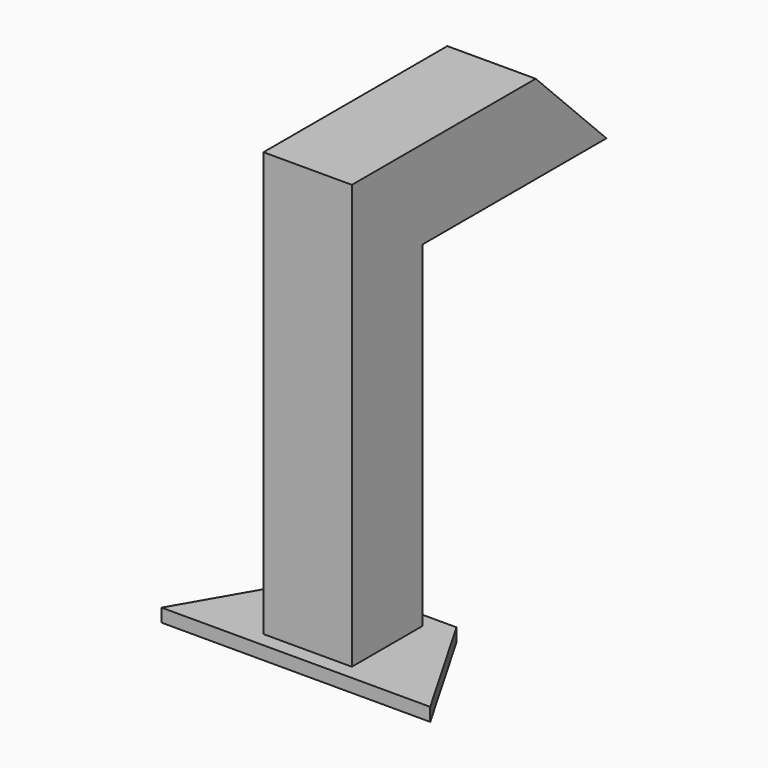
from build123d import *

# Parameters (mm, degrees)
F2_DEPTH  = 9.525
F4_DEPTH  = 304.8
F6_DEPTH  = 63.5
F8_W      = 63.5
F8_H      = 63.5
F8_W_2    = 50.8
F8_H_2    = 50.8
F9_DEPTH  = 228.6
F11_DEPTH = 128.262011


with BuildPart() as f2:
    # F1 (on face) → F2 (new body)
    with BuildSketch(Plane.XY):
        Polygon((-48.886011, -84.673055), (144.136011, -84.673055), (95.25, 0), (0, 0), align=None)
    extrude(amount=F2_DEPTH)

    # F3 (on face) → F4 (join)
    with BuildSketch(Plane.XY.offset(9.525)):
        Polygon((79.375, -10.586528), (47.625, -10.586528), (47.625, -16.936528), (73.025, -16.936528), (73.025, -67.736528), (47.625, -67.736528), (47.625, -74.086528), (79.375, -74.086528), align=None)
        Polygon((47.625, -16.936528), (47.625, -10.586528), (15.875, -10.586528), (15.875, -74.086528), (47.625, -74.086528), (47.625, -67.736528), (22.225, -67.736528), (22.225, -16.936528), align=None)
    extrude(amount=F4_DEPTH)

    # F5 (on face) → F6 (cut)
    with BuildSketch(Plane.YZ.offset(79.375)):
        Polygon((-10.586528, 314.325), (-74.086528, 314.325), (-10.586528, 250.825), align=None)
    extrude(amount=-F6_DEPTH, mode=Mode.SUBTRACT)

    # F8 (on face) → F9 (join)
    with BuildSketch(Plane.XZ.offset(74.086528)):
        with Locations((47.625, 282.575)):
            Rectangle(F8_W, F8_H)
        with Locations((47.625, 282.575)):
            Rectangle(F8_W_2, F8_H_2, mode=Mode.SUBTRACT)
    extrude(amount=-F9_DEPTH)

    # F10 (on face) → F11 (cut, through all)
    with BuildSketch(Plane.YZ.offset(79.375)):
        Polygon((91.013472, 314.325), (154.513472, 250.825), (154.513472, 314.325), align=None)
    extrude(amount=-F11_DEPTH, mode=Mode.SUBTRACT)


solid = f2.part
